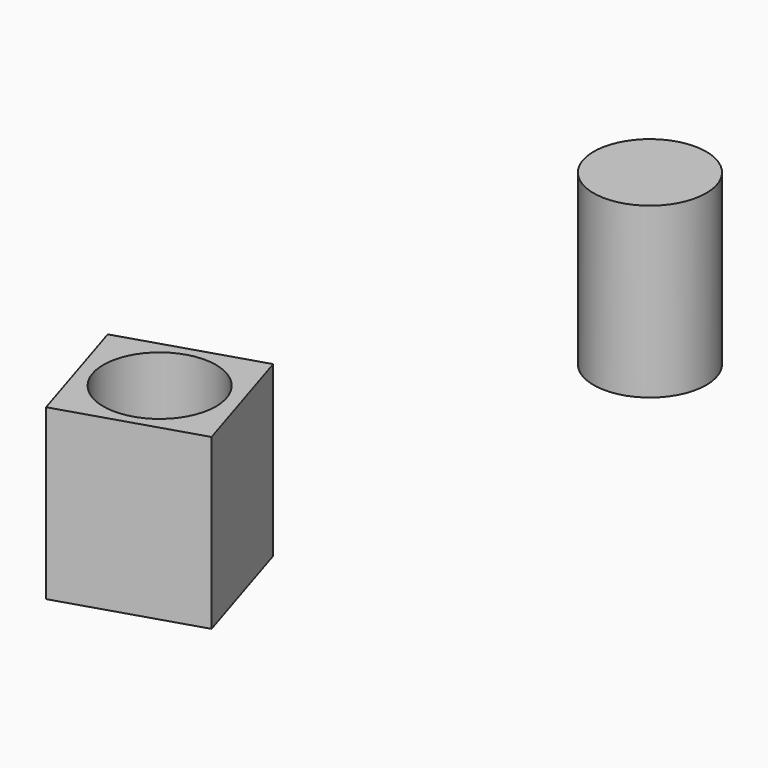
from build123d import *

# Parameters (mm, degrees)
F0_R     = 25.4
F1_DEPTH = 76.2
F2_R     = 25.4
F3_DEPTH = 76.2


with BuildPart() as f1:
    # F0 (on Top) → F1 (new body)
    with BuildSketch(Plane.XY):
        with Locations((-107.276268, -18.452886)):
            Circle(F0_R)
    extrude(amount=F1_DEPTH)


with BuildPart() as f3:
    # F2 (on Top) → F3 (new body)
    with BuildSketch(Plane.XY):
        Polygon((-210.993154, -101.221448), (-270.683154, -119.889624), (-252.904745, -176.870535), (-193.214745, -158.202359), align=None)
        with Locations((-231.94895, -139.045991)):
            Circle(F2_R, mode=Mode.SUBTRACT)
    extrude(amount=-F3_DEPTH)


solid = Compound([f1.part, f3.part])
